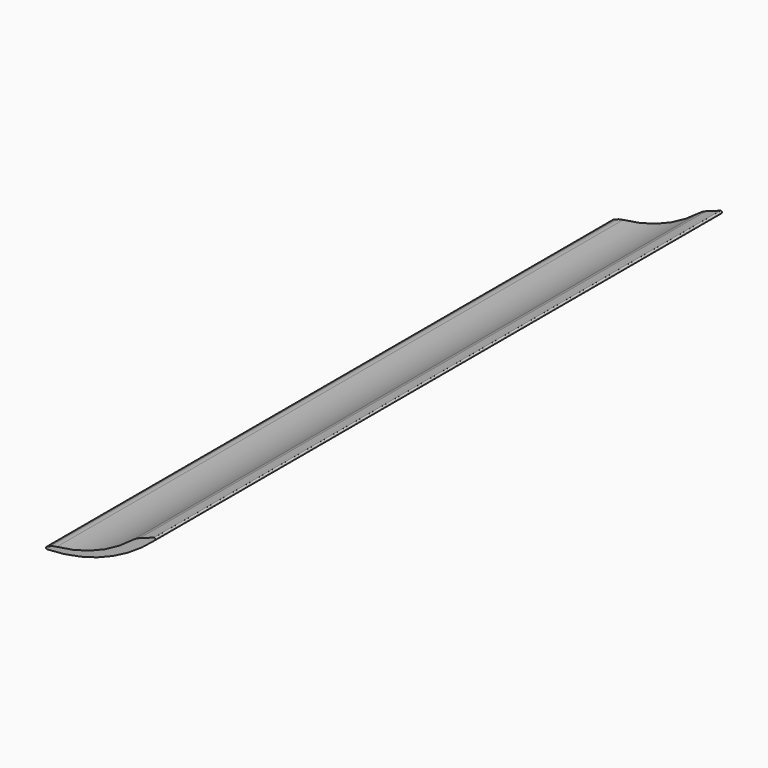
from build123d import *

# Parameters (mm, degrees)
F1_DEPTH = 381
F2_R     = 25.4
F3_R     = 1.27


with BuildPart() as f1:
    # F0 (on Front) → F1 (new body, symmetric)
    with BuildSketch(Plane.XZ):
        with BuildLine():
            ThreePointArc((38.1, 41.6392), (-3.574456, 16.768836), (-50.8, 5.586557))
            Line((-50.8, 5.586557), (-63.5, 0))
            ThreePointArc((-63.5, 0), (4.891593, 13.171017), (63.5, 50.8))
            Line((63.5, 50.8), (38.1, 41.6392))
        make_face()
    extrude(amount=F1_DEPTH, both=True)

    # F2
    f2_edges = [f1.edges().sort_by_distance(p)[0] for p in [
        (38.1, 0, 41.6392),
        (-50.8, 0, 5.586557),
    ]]
    fillet(f2_edges, radius=F2_R)

    # F3
    f3_edges = [f1.edges().sort_by_distance(p)[0] for p in [
        (-63.5, 0, 0),
        (63.5, 0, 50.8),
    ]]
    fillet(f3_edges, radius=F3_R)


solid = f1.part
